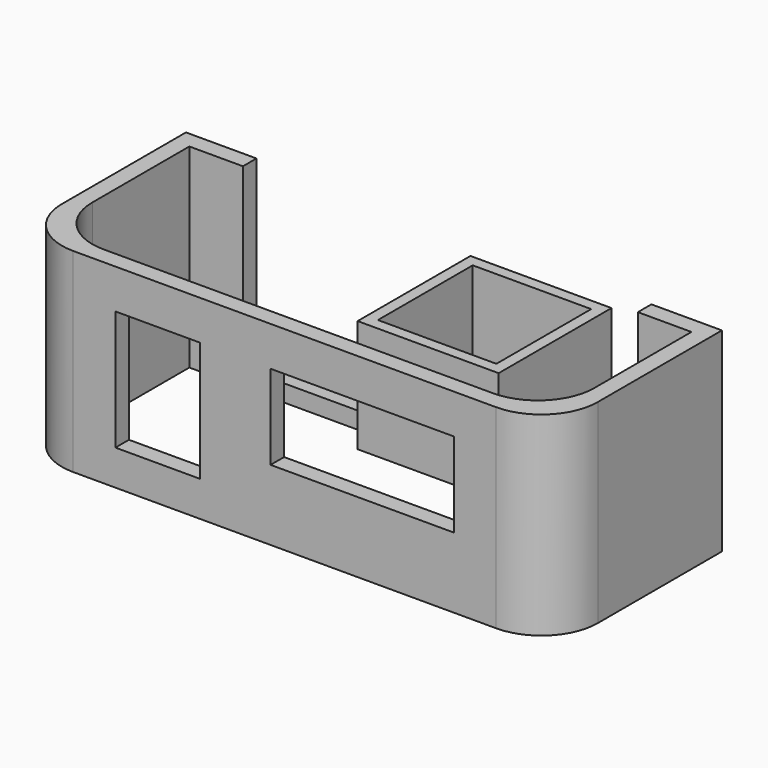
from build123d import *

# Parameters (mm, degrees)
F0_W      = 38
F0_H      = 15
F1_DEPTH  = 15
F2_T      = -1.2
F3_W      = 13
F3_H      = 6
F3_W_2    = 6
F3_H_2    = 8.5
F4_DEPTH  = 1.2
F5_DEPTH  = 1.2
F6_DEPTH  = 25
F7_R      = 4
F8_W      = 28
F8_H      = 13.8
F9_DEPTH  = 1.2
F10_W     = 10
F10_H     = 10
F11_DEPTH = 8
F12_T     = -0.8
F13_DEPTH = 25
F14_W     = 9.5933079185
F14_H     = 1.2
F15_DEPTH = 1.2


with BuildPart() as f1:
    # F0 (on Top) → F1 (new body)
    with BuildSketch(Plane.XY):
        with Locations((-34.6555788131, 0)):
            Rectangle(F0_W, F0_H)
    extrude(amount=F1_DEPTH)

    # F2 (hollow: no face is removed)
    offset(amount=F2_T, mode=Mode.SUBTRACT)

    # F3 (on face) → F4 (cut, through all)
    with BuildSketch(Plane.XZ.offset(7.5)):
        with Locations((-29.1555788131, 8)):
            Rectangle(F3_W, F3_H)
        with Locations((-43.6555788131, 6.75)):
            Rectangle(F3_W_2, F3_H_2)
    extrude(amount=-F4_DEPTH, mode=Mode.SUBTRACT)

    # F5 (cut, through all): a face of the model
    f5_faces = [f1.faces().sort_by_distance(p)[0] for p in [
        (-34.6555788131, 0, 15),
    ]]
    extrude(f5_faces, amount=-F5_DEPTH, mode=Mode.SUBTRACT)

    # F6 (cut): a face of the model
    f6_faces = [f1.faces().sort_by_distance(p)[0] for p in [
        (-34.6555788131, 0, 1.2),
    ]]
    extrude(f6_faces, amount=-F6_DEPTH, mode=Mode.SUBTRACT)

    # F7
    f7_edges = [f1.edges().sort_by_distance(p)[0] for p in [
        (-15.655579, -7.5, 6.9),
        (-52.455579, -6.3, 6.9),
        (-53.655579, -7.5, 6.9),
        (-16.855579, -6.3, 6.9),
    ]]
    fillet(f7_edges, radius=F7_R)

    # F8 (on face) → F9 (cut, through all)
    with BuildSketch(Plane(origin=(0, 7.5, 0), x_dir=(-1, 0, 0), z_dir=(0, 1, 0))):
        with Locations((34.6555788131, 6.9)):
            Rectangle(F8_W, F8_H)
    extrude(amount=-F9_DEPTH, mode=Mode.SUBTRACT)



with BuildPart() as f11:
    # F10 (on Top) → F11 (new body)
    with BuildSketch(Plane.XY):
        with Locations((-34.0622708946, 9.4726205524)):
            Rectangle(F10_W, F10_H)
    extrude(amount=F11_DEPTH)

    # F12
    f12_openings = [f11.faces().sort_by_distance(p)[0] for p in [
        (-34.062271, 9.472621, 0),
    ]]
    offset(amount=F12_T, openings=f12_openings)

    # F13 (cut): a face of the model
    f13_faces = [f11.faces().sort_by_distance(p)[0] for p in [
        (-34.0622708946, 9.4726205524, 7.2),
    ]]
    extrude(f13_faces, amount=-F13_DEPTH, mode=Mode.SUBTRACT)


with BuildPart() as f1_1:
    add(f1.part)

    add(f11.part)  # F15 merges F11
    # F14 (on Top) → F15 (join)
    with BuildSketch(Plane.XY):
        with Locations((-43.8589248539, 6.9)):
            Rectangle(F14_W, F14_H)
    extrude(amount=F15_DEPTH)


solid = f1_1.part
